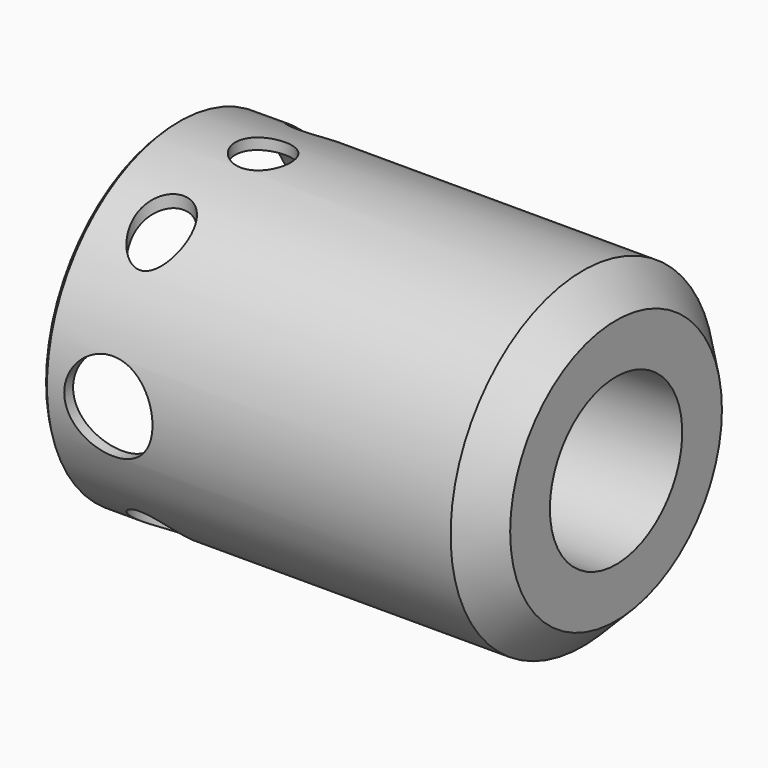
from build123d import *

# Parameters (mm, degrees)
F0_R      = 19.05
F1_DEPTH  = 50.8
F3_D      = 6.35
F6_D      = 10.16
F7_R      = 17.78
F8_DEPTH  = 33.02
F10_D     = 19.05
F11_SIZE  = 3.81
F12_W     = 20.64146474
F12_H     = 10.4341469705
F13_DEPTH = 5.08
F14_SIZE  = 0.508


with BuildPart() as f1:
    # F0 (on Right) → F1 (new body)
    with BuildSketch(Plane.YZ):
        with Locations((19.05, 19.05)):
            Circle(F0_R)
    extrude(amount=F1_DEPTH)

    # F3 (through all)
    with Locations(Plane(origin=(0, 0, 0), x_dir=(1, 0, 0), z_dir=(0, 0, -1))):
        with Locations((10.16, -19.05), (7.62, -7.62), (7.62, -30.48)):
            Hole(F3_D / 2)

    # F6 (through all)
    with Locations(Plane.XZ):
        with Locations((7.5778216124, 18.9903974533)):
            Hole(F6_D / 2)

    # F7 (on face) → F8 (cut)
    with BuildSketch(Plane(origin=(0, 0, 0), x_dir=(0, -1, 0), z_dir=(-1, 0, 0))):
        with Locations((-19.05, 19.05)):
            Circle(F7_R)
    extrude(amount=-F8_DEPTH, mode=Mode.SUBTRACT)

    # F10 (through all)
    with Locations(Plane(origin=(0, 0, 0), x_dir=(0, 1, 0), z_dir=(-1, 0, 0))):
        with Locations((19.05, -19.05)):
            Hole(F10_D / 2)

    # F11
    f11_edges = [f1.edges().sort_by_distance(p)[0] for p in [
        (50.8, 0, 19.05),
    ]]
    chamfer(f11_edges, length=F11_SIZE)

    # F12 (on Top) → F13 (cut)
    with BuildSketch(Plane.XY):
        with Locations((30.2934516221, 16.7313236743)):
            Rectangle(F12_W, F12_H)
    extrude(amount=-F13_DEPTH, mode=Mode.SUBTRACT)

    # F14
    f14_edges = [f1.edges().sort_by_distance(p)[0] for p in [
        (0, 0, 19.05),
    ]]
    chamfer(f14_edges, length=F14_SIZE)


solid = f1.part
